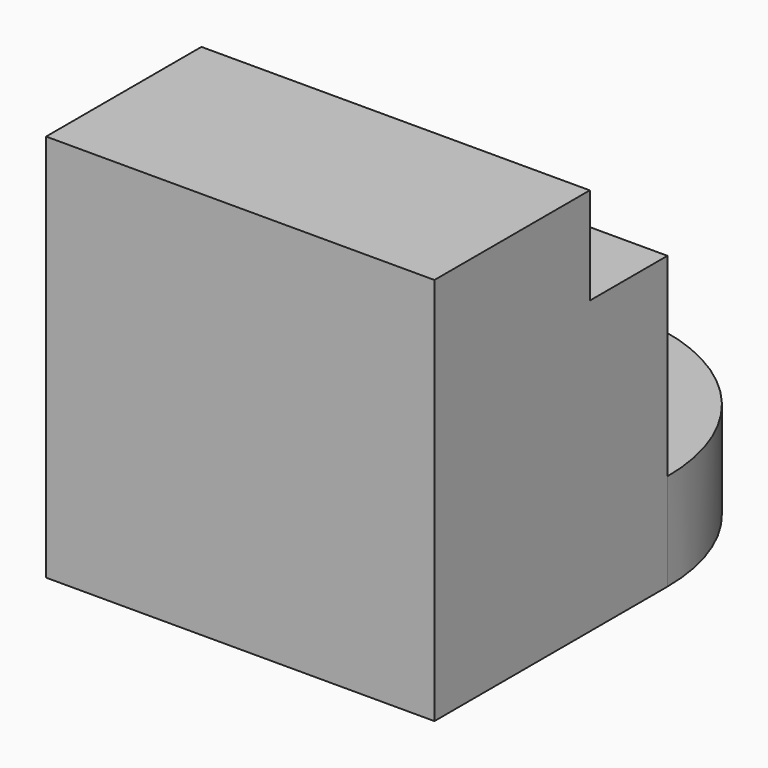
from build123d import *

# Parameters (mm, degrees)
PAD_DEPTH    = 40
FILLET_R     = 19.999
SKETCH002_R  = 10
POCKET_DEPTH = 40.001


with BuildPart() as part:
    # Sketch → Pad (new body)
    with BuildSketch(Plane.YZ):
        Polygon((-20, 40), (0, 40), (0, 30), (10, 30), (10, 10), (30, 10), (30, 0), (-20, 0), align=None)
    extrude(amount=PAD_DEPTH)

    # Fillet
    fillet_edges = [part.edges().sort_by_distance(p)[0] for p in [
        (40, 30, 5),
        (0, 30, 5),
    ]]
    fillet(fillet_edges, radius=FILLET_R)

    # Sketch002 (on Face12 of Fillet) → Pocket (cut, through all)
    with BuildSketch(Plane(origin=(0, 0, 40), x_dir=(0, -1, 0), z_dir=(0, 0, 1))):
        with Locations((-10, 19.999961)):
            Circle(SKETCH002_R)
    extrude(amount=-POCKET_DEPTH, mode=Mode.SUBTRACT)


solid = part.part
